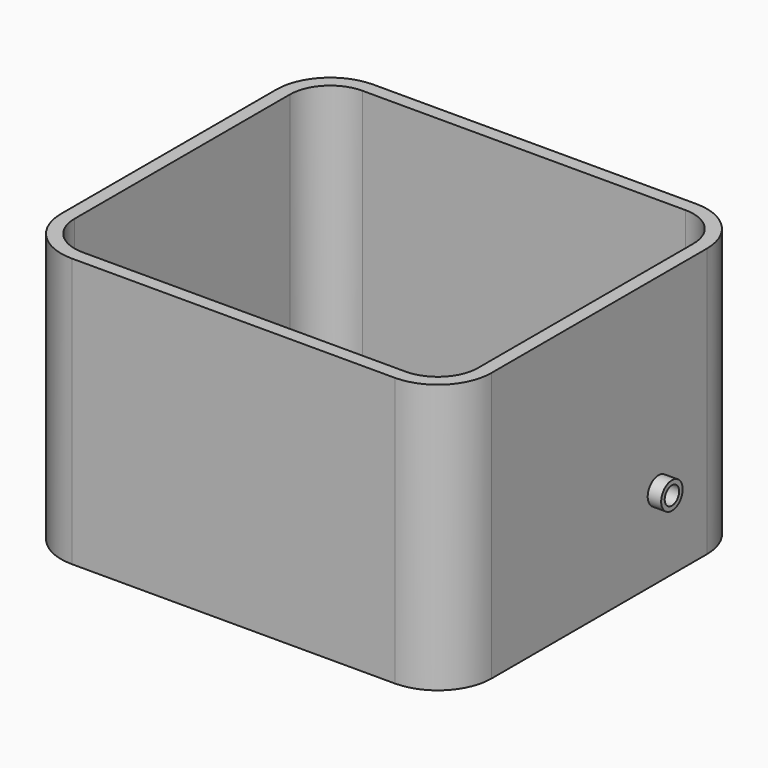
from build123d import *

# Parameters (mm, degrees)
F5_W     = 101.6
F5_H     = 88.9
F6_DEPTH = 63.5
F0_R     = 12.7
F1_T     = -3.175
F2_D     = 3.175
F2_DEPTH = 12.7
F3_R     = 3.175
F3_R_2   = 2.12725
F4_DEPTH = 3.175


with BuildPart() as f6:
    # F5 (on Top) → F6 (new body)
    with BuildSketch(Plane.XY):
        Rectangle(F5_W, F5_H)
    extrude(amount=F6_DEPTH)

    # F0
    f0_edges = [f6.edges().sort_by_distance(p)[0] for p in [
        (50.8, -44.45, 31.75),
        (50.8, 44.45, 31.75),
        (-50.8, -44.45, 31.75),
        (-50.8, 44.45, 31.75),
    ]]
    fillet(f0_edges, radius=F0_R)

    # F1
    f1_openings = [f6.faces().sort_by_distance(p)[0] for p in [
        (0, 0, 63.5),
    ]]
    offset(amount=F1_T, openings=f1_openings)

    # F2
    with Locations(Plane.YZ.offset(50.8)):
        with Locations((17.4625, 19.05)):
            Hole(F2_D / 2, depth=F2_DEPTH)

    # F3 (on face) → F4 (join)
    with BuildSketch(Plane.YZ.offset(50.8)):
        with Locations((17.4625, 19.05)):
            Circle(F3_R)
        with Locations((17.4625, 19.05)):
            Circle(F3_R_2, mode=Mode.SUBTRACT)
    extrude(amount=F4_DEPTH)


solid = f6.part
